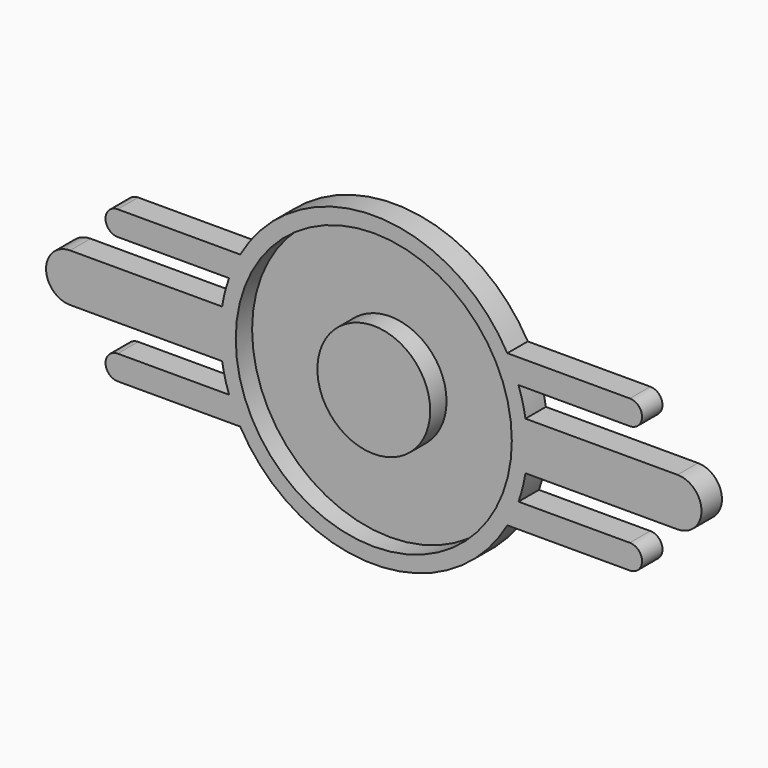
from build123d import *

# Parameters (mm, degrees)
F0_R     = 27.011072
F0_R_2   = 11.036563
F1_DEPTH = 1
F2_DEPTH = 5


with BuildPart() as f1:
    # F0 (on Front) → F1 (new body)
    with BuildSketch(Plane.XZ):
        Circle(F0_R)
        Circle(F0_R_2, mode=Mode.SUBTRACT)
    extrude(amount=F1_DEPTH)

    # F0 (on Front) → F2 (join)
    with BuildSketch(Plane.XZ):
        with BuildLine():
            ThreePointArc((29.67797, -4.699063), (29.95511, -2.356792), (30.04768, 0))
            ThreePointArc((30.04768, 0), (29.95511, 2.356792), (29.67797, 4.699063))
            ThreePointArc((29.67797, 4.699063), (29.121812, 7.401566), (28.320102, 10.04166))
            ThreePointArc((28.320102, 10.04166), (27.333629, 12.479416), (26.137785, 14.821582))
            ThreePointArc((26.137785, 14.821582), (0, 30.04768), (-26.137785, 14.821582))
            ThreePointArc((-26.137785, 14.821582), (-27.333629, 12.479416), (-28.320102, 10.04166))
            ThreePointArc((-28.320102, 10.04166), (-29.121812, 7.401566), (-29.67797, 4.699063))
            ThreePointArc((-29.67797, 4.699063), (-30.04768, 0), (-29.67797, -4.699063))
            ThreePointArc((-29.67797, -4.699063), (-29.121812, -7.401566), (-28.320102, -10.04166))
            ThreePointArc((-28.320102, -10.04166), (-27.333629, -12.479416), (-26.137785, -14.821582))
            ThreePointArc((-26.137785, -14.821582), (0, -30.04768), (26.137785, -14.821582))
            ThreePointArc((26.137785, -14.821582), (27.333629, -12.479416), (28.320102, -10.04166))
            ThreePointArc((28.320102, -10.04166), (29.121812, -7.401566), (29.67797, -4.699063))
        make_face()
        Circle(F0_R, mode=Mode.SUBTRACT)
        Circle(F0_R_2)
        with BuildLine():
            ThreePointArc((26.137785, 14.821582), (27.333629, 12.479416), (28.320102, 10.04166))
            Line((28.320102, 10.04166), (50.103527, 10.04166))
            ThreePointArc((50.103527, 10.04166), (52.493488, 12.431621), (50.103527, 14.821582))
            Line((50.103527, 14.821582), (26.137785, 14.821582))
        make_face()
        with BuildLine():
            ThreePointArc((29.67797, 4.699063), (29.95511, 2.356792), (30.04768, 0))
            ThreePointArc((30.04768, 0), (29.95511, -2.356792), (29.67797, -4.699063))
            Line((29.67797, -4.699063), (59.423488, -4.699063))
            ThreePointArc((59.423488, -4.699063), (64.122551, 0), (59.423488, 4.699063))
            Line((59.423488, 4.699063), (29.67797, 4.699063))
        make_face()
        with BuildLine():
            Line((50.103527, -10.04166), (28.320102, -10.04166))
            ThreePointArc((28.320102, -10.04166), (27.333629, -12.479416), (26.137785, -14.821582))
            Line((26.137785, -14.821582), (50.103527, -14.821582))
            ThreePointArc((50.103527, -14.821582), (52.493488, -12.431621), (50.103527, -10.04166))
        make_face()
        with BuildLine():
            Line((-50.103527, -14.821582), (-26.137785, -14.821582))
            ThreePointArc((-26.137785, -14.821582), (-27.333629, -12.479416), (-28.320102, -10.04166))
            Line((-28.320102, -10.04166), (-50.103527, -10.04166))
            ThreePointArc((-50.103527, -10.04166), (-52.493488, -12.431621), (-50.103527, -14.821582))
        make_face()
        with BuildLine():
            ThreePointArc((-29.67797, -4.699063), (-30.04768, 0), (-29.67797, 4.699063))
            Line((-29.67797, 4.699063), (-59.423488, 4.699063))
            ThreePointArc((-59.423488, 4.699063), (-64.122551, 0), (-59.423488, -4.699063))
            Line((-59.423488, -4.699063), (-29.67797, -4.699063))
        make_face()
        with BuildLine():
            ThreePointArc((-28.320102, 10.04166), (-27.333629, 12.479416), (-26.137785, 14.821582))
            Line((-26.137785, 14.821582), (-50.103527, 14.821582))
            ThreePointArc((-50.103527, 14.821582), (-52.493488, 12.431621), (-50.103527, 10.04166))
            Line((-50.103527, 10.04166), (-28.320102, 10.04166))
        make_face()
    extrude(amount=F2_DEPTH)


solid = f1.part
